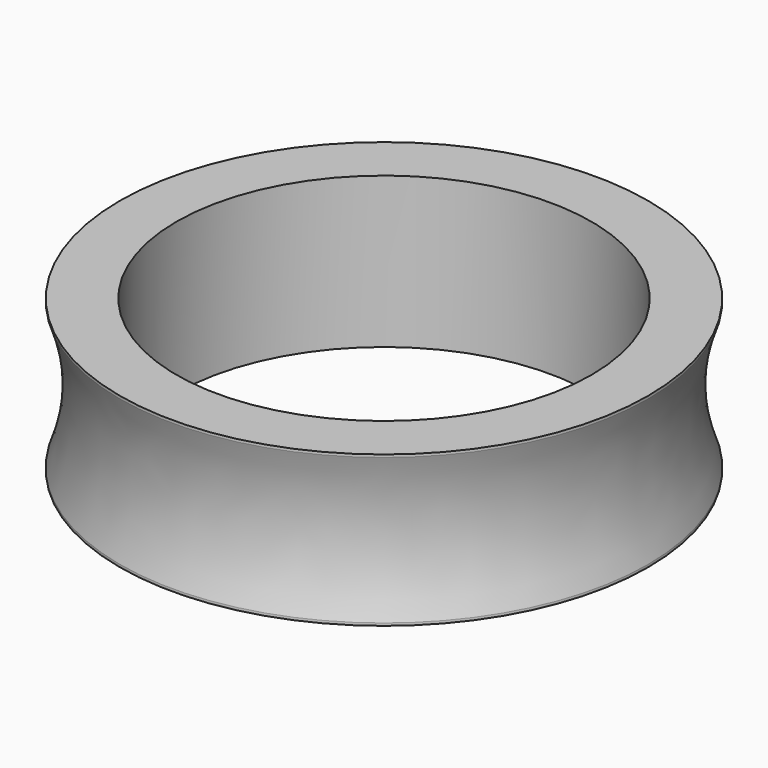
from build123d import *


with BuildPart() as f1:
    # F0 (on Front) → F1 (revolve)
    with BuildSketch(Plane.XZ):
        with BuildLine():
            Line((11, 8), (11, 0))
            Line((11, 0), (14, 0))
            Line((14, 0), (14, 0.138653))
            ThreePointArc((14, 0.138653), (13.3, 4), (14, 7.861347))
            Line((14, 7.861347), (14, 8))
            Line((14, 8), (11, 8))
        make_face()
    revolve(axis=Axis((0, 0, 8.4945), (0, 0, 1)))


solid = f1.part
